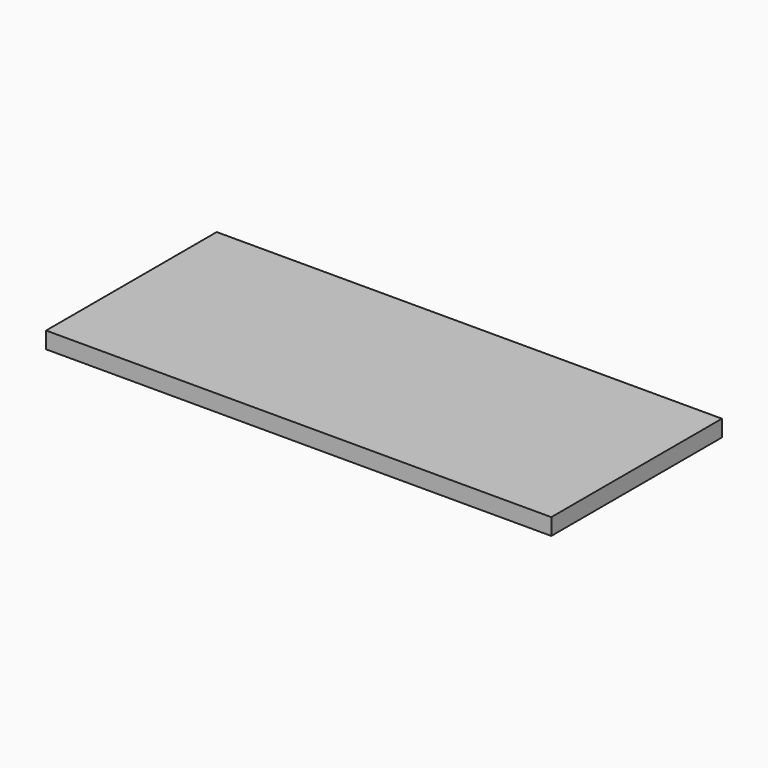
from build123d import *

# Parameters (mm, degrees)
F0_W     = 1220
F0_H     = 515
F1_DEPTH = 20
F2_W     = 1200
F2_H     = 8
F3_DEPTH = 30
F4_W     = 8
F4_H     = 492
F5_DEPTH = 30
F6_W     = 8
F6_H     = 492
F7_DEPTH = 30
F8_ANGLE = 180


with BuildPart() as f1:
    # F0 (on Top) → F1 (new body, symmetric)
    with BuildSketch(Plane.XY):
        Rectangle(F0_W, F0_H)
    extrude(amount=F1_DEPTH, both=True)

    # F2 (on face) → F3 (cut)
    with BuildSketch(Plane.XY.offset(20)):
        with Locations((0, 243.5)):
            Rectangle(F2_W, F2_H)
    extrude(amount=-F3_DEPTH, mode=Mode.SUBTRACT)

    # F4 (on face) → F5 (cut)
    with BuildSketch(Plane.XY.offset(20)):
        with Locations((-596, 1.5)):
            Rectangle(F4_W, F4_H)
    extrude(amount=-F5_DEPTH, mode=Mode.SUBTRACT)

    # F6 (on face) → F7 (cut)
    with BuildSketch(Plane.XY.offset(20)):
        with Locations((596, -6.5)):
            Rectangle(F6_W, F6_H)
    extrude(amount=-F7_DEPTH, mode=Mode.SUBTRACT)


with BuildPart() as f1_1:
    # F8: moved
    add(f1.part.rotate(Axis((-610, 0, 20), (0, 1, 0)), F8_ANGLE))


solid = f1_1.part
